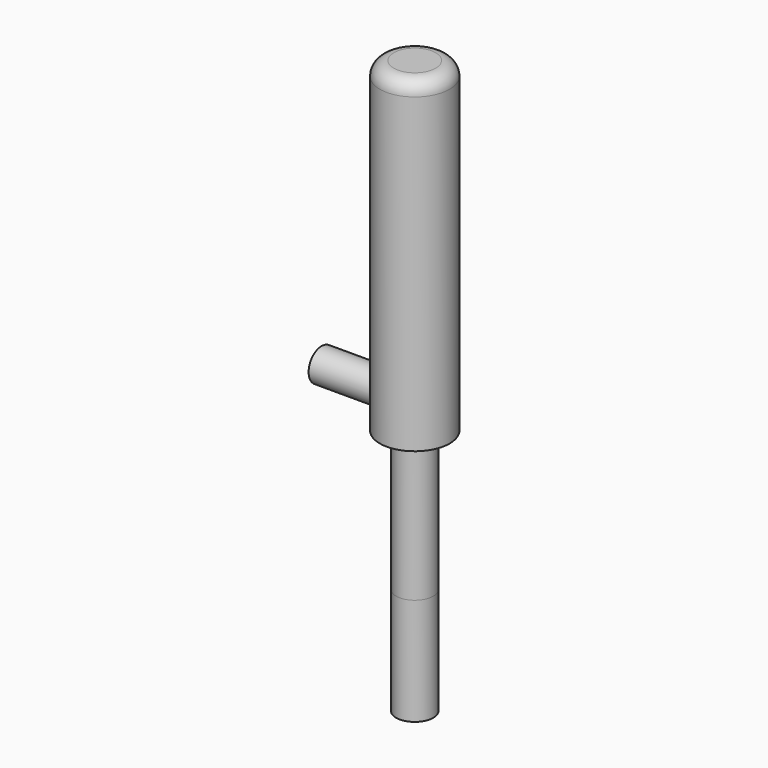
from build123d import *

# Parameters (mm, degrees)
F0_R      = 7.5
F1_DEPTH  = 100
F2_R      = 3
F3_R      = 7.5
F3_R_2    = 4
F4_DEPTH  = 30
F5_R      = 3.5
F6_DEPTH  = 20
F1_FACE_R = 4
F7_DEPTH  = 23


with BuildPart() as f1:
    # F0 (on Top) → F1 (new body)
    with BuildSketch(Plane.XY):
        Circle(F0_R)
    extrude(amount=F1_DEPTH)

    # F2
    f2_edges = [f1.edges().sort_by_distance(p)[0] for p in [
        (-7.5, 0, 100),
    ]]
    fillet(f2_edges, radius=F2_R)

    # F3 (on face) → F4 (cut)
    with BuildSketch(Plane(origin=(0, 0, 0), x_dir=(1, 0, 0), z_dir=(0, 0, -1))):
        Circle(F3_R)
        Circle(F3_R_2, mode=Mode.SUBTRACT)
    extrude(amount=-F4_DEPTH, mode=Mode.SUBTRACT)

    # F5 (on Right) → F6 (join)
    with BuildSketch(Plane.YZ):
        with Locations((0, 36)):
            Circle(F5_R)
    extrude(amount=-F6_DEPTH)

    # F1_face (on face) → F7 (join)
    with BuildSketch(Plane(origin=(0, 0, 0), x_dir=(1, 0, 0), z_dir=(0, 0, -1))):
        Circle(F1_FACE_R)
    extrude(amount=F7_DEPTH)


solid = f1.part
